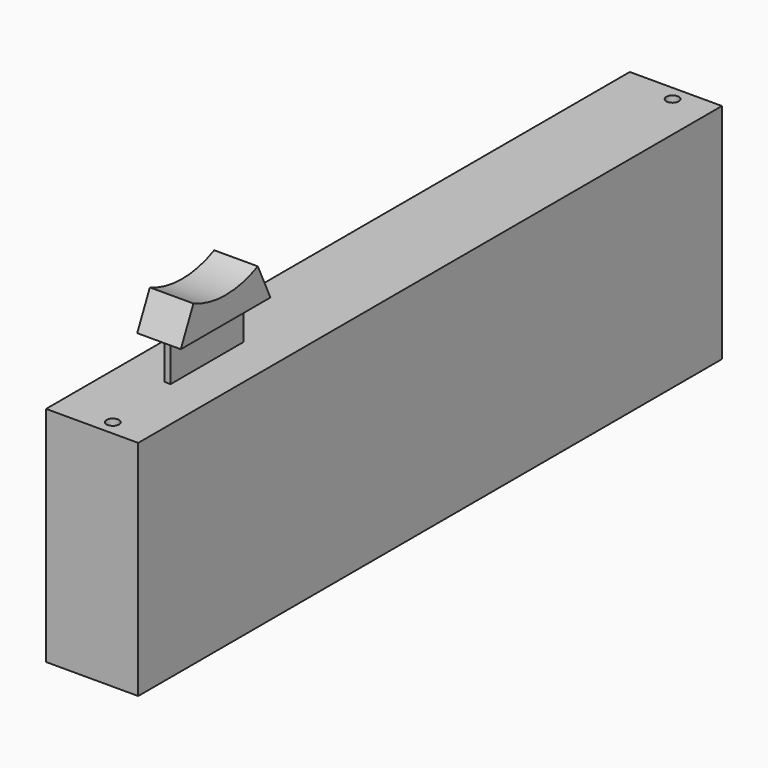
from build123d import *

# Parameters (mm, degrees)
F0_W     = 148.844
F0_H     = 45.466
F1_DEPTH = 18.796
F2_R     = 1.27
F3_DEPTH = 2.54
F5_W     = 18.542
F5_H     = 8.382
F6_DEPTH = 0.635
F8_DEPTH = 4.445


with BuildPart() as f1:
    # F0 (on Right) → F1 (new body)
    with BuildSketch(Plane.YZ):
        with Locations((74.422, 22.733)):
            Rectangle(F0_W, F0_H)
    extrude(amount=F1_DEPTH)

    # F2 (on face) → F3 (cut)
    with BuildSketch(Plane.XY.offset(45.466)):
        with Locations((11.176, 145.796)):
            Circle(F2_R)
        with Locations((11.176, 3.048)):
            Circle(F2_R)
    extrude(amount=-F3_DEPTH, mode=Mode.SUBTRACT)


with BuildPart() as f6:
    # F5 (on offset) → F6 (new body, symmetric)
    with BuildSketch(Plane.YZ.offset(9.525)):
        with Locations((28.321, 49.657)):
            Rectangle(F5_W, F5_H)
    extrude(amount=F6_DEPTH, both=True)

    # F7 (on offset) → F8 (join, symmetric)
    with BuildSketch(Plane.YZ.offset(9.525)):
        with BuildLine():
            Line((20.111351, 60.754065), (16.891, 53.848))
            Line((16.891, 53.848), (39.751, 53.848))
            Line((39.751, 53.848), (36.530649, 60.754065))
            ThreePointArc((36.530649, 60.754065), (28.321, 58.928), (20.111351, 60.754065))
        make_face()
    extrude(amount=F8_DEPTH, both=True)


solid = Compound([f1.part, f6.part])
